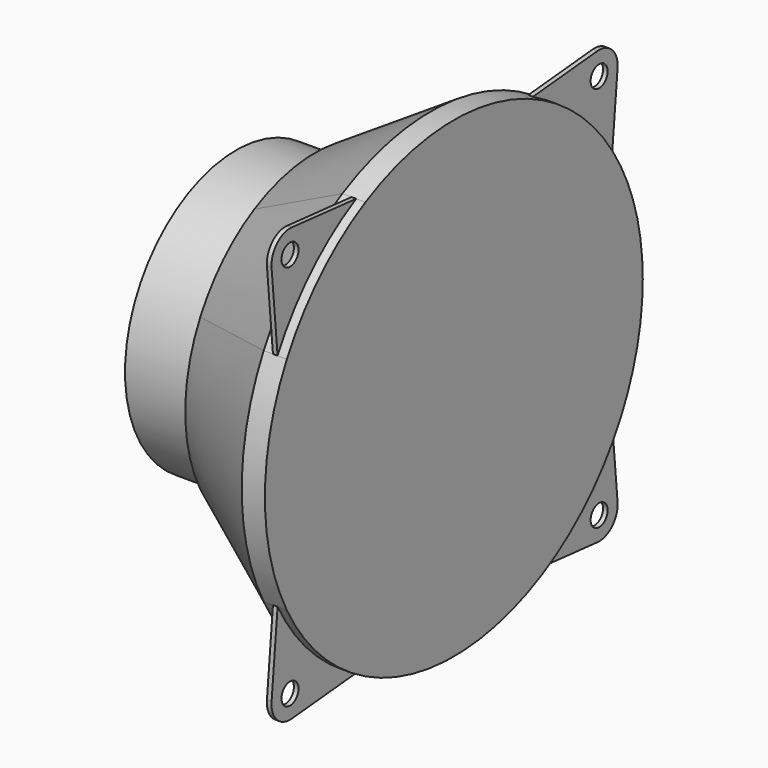
from build123d import *

# Parameters (mm, degrees)
F0_R     = 30
F1_DEPTH = 30
F2_START = 27
F0_R_2   = 2.3
F2_DEPTH = 1
F3_DEPTH = 17
F4_SIZE2 = 16
F4_SIZE  = 25


with BuildPart() as f1:
    # F0 (on Right) → F1 (new body)
    with BuildSketch(Plane.YZ):
        with BuildLine():
            ThreePointArc((45.073977597, -23.8607741614), (49.4963274266, -12.2928260085), (51, 0))
            ThreePointArc((51, 0), (49.4963274266, 12.2928260085), (45.073977597, 23.8607741614))
            ThreePointArc((45.073977597, 23.8607741614), (36.0624458405, 36.0624458405), (23.8607741614, 45.073977597))
            ThreePointArc((23.8607741614, 45.073977597), (0, 51), (-23.8607741614, 45.073977597))
            ThreePointArc((-23.8607741614, 45.073977597), (-36.0624458405, 36.0624458405), (-45.073977597, 23.8607741614))
            ThreePointArc((-45.073977597, 23.8607741614), (-51, 0), (-45.073977597, -23.8607741614))
            ThreePointArc((-45.073977597, -23.8607741614), (-36.0624458405, -36.0624458405), (-23.8607741614, -45.073977597))
            ThreePointArc((-23.8607741614, -45.073977597), (0, -51), (23.8607741614, -45.073977597))
            ThreePointArc((23.8607741614, -45.073977597), (36.0624458405, -36.0624458405), (45.073977597, -23.8607741614))
        make_face()
        Circle(F0_R, mode=Mode.SUBTRACT)
        Circle(F0_R)
    extrude(amount=F1_DEPTH)

    # F0 (on Right) → F2 (join)
    with BuildSketch(Plane.YZ.offset(F2_START)):
        with BuildLine():
            ThreePointArc((23.8607741614, 45.073977597), (36.0624458405, 36.0624458405), (45.073977597, 23.8607741614))
            Line((45.073977597, 23.8607741614), (46.6976567543, 41.2545798264))
            ThreePointArc((46.6976567543, 41.2545798264), (45.2548339959, 45.2548339959), (41.2545798264, 46.6976567543))
            Line((41.2545798264, 46.6976567543), (23.8607741614, 45.073977597))
        make_face()
        with Locations((41.71930009, 41.71930009)):
            Circle(F0_R_2, mode=Mode.SUBTRACT)
        with BuildLine():
            ThreePointArc((-45.073977597, 23.8607741614), (-36.0624458405, 36.0624458405), (-23.8607741614, 45.073977597))
            Line((-23.8607741614, 45.073977597), (-41.2545798264, 46.6976567543))
            ThreePointArc((-41.2545798264, 46.6976567543), (-45.2548339959, 45.2548339959), (-46.6976567543, 41.2545798264))
            Line((-46.6976567543, 41.2545798264), (-45.073977597, 23.8607741614))
        make_face()
        with Locations((-41.71930009, 41.71930009)):
            Circle(F0_R_2, mode=Mode.SUBTRACT)
        with BuildLine():
            Line((-41.2545798264, -46.6976567543), (-23.8607741614, -45.073977597))
            ThreePointArc((-23.8607741614, -45.073977597), (-36.0624458405, -36.0624458405), (-45.073977597, -23.8607741614))
            Line((-45.073977597, -23.8607741614), (-46.6976567543, -41.2545798264))
            ThreePointArc((-46.6976567543, -41.2545798264), (-45.2548339959, -45.2548339959), (-41.2545798264, -46.6976567543))
        make_face()
        with Locations((-41.71930009, -41.71930009)):
            Circle(F0_R_2, mode=Mode.SUBTRACT)
        with BuildLine():
            Line((46.6976567543, -41.2545798264), (45.073977597, -23.8607741614))
            ThreePointArc((45.073977597, -23.8607741614), (36.0624458405, -36.0624458405), (23.8607741614, -45.073977597))
            Line((23.8607741614, -45.073977597), (41.2545798264, -46.6976567543))
            ThreePointArc((41.2545798264, -46.6976567543), (45.2548339959, -45.2548339959), (46.6976567543, -41.2545798264))
        make_face()
        with Locations((41.71930009, -41.71930009)):
            Circle(F0_R_2, mode=Mode.SUBTRACT)
    extrude(amount=F2_DEPTH)

    # F0 (on Right) → F3 (join)
    with BuildSketch(Plane.YZ):
        Circle(F0_R)
    extrude(amount=-F3_DEPTH)

    # F4
    f4_edges = [f1.edges().sort_by_distance(p)[0] for p in [
        (0, -45.073978, 23.860774),
    ]]
    f4_side = f1.faces().sort_by_distance((15, -45.073978, 23.860774))[0]
    chamfer(f4_edges, length=F4_SIZE, length2=F4_SIZE2, reference=f4_side)


solid = f1.part
